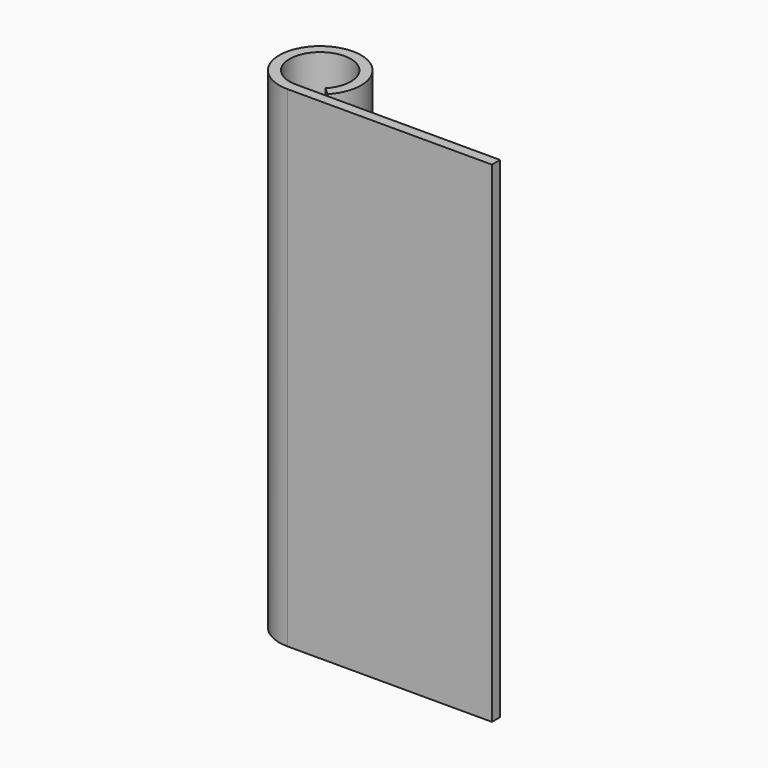
from build123d import *

# Parameters (mm, degrees)
F1_DEPTH = 38.1


with BuildPart() as f1:
    # F0 (on Top) → F1 (new body, symmetric)
    with BuildSketch(Plane.XY):
        with BuildLine():
            Line((31.75, -6.35), (31.75, -4.7625))
            Line((31.75, -4.7625), (0, -4.7625))
            ThreePointArc((0, -4.7625), (-1.882543, 4.374636), (3.458453, -3.274219))
            Line((3.458453, -3.274219), (4.611271, -4.365625))
            ThreePointArc((4.611271, -4.365625), (-2.510058, 5.832847), (0, -6.35))
            Line((0, -6.35), (31.75, -6.35))
        make_face()
    extrude(amount=F1_DEPTH, both=True)


solid = f1.part
